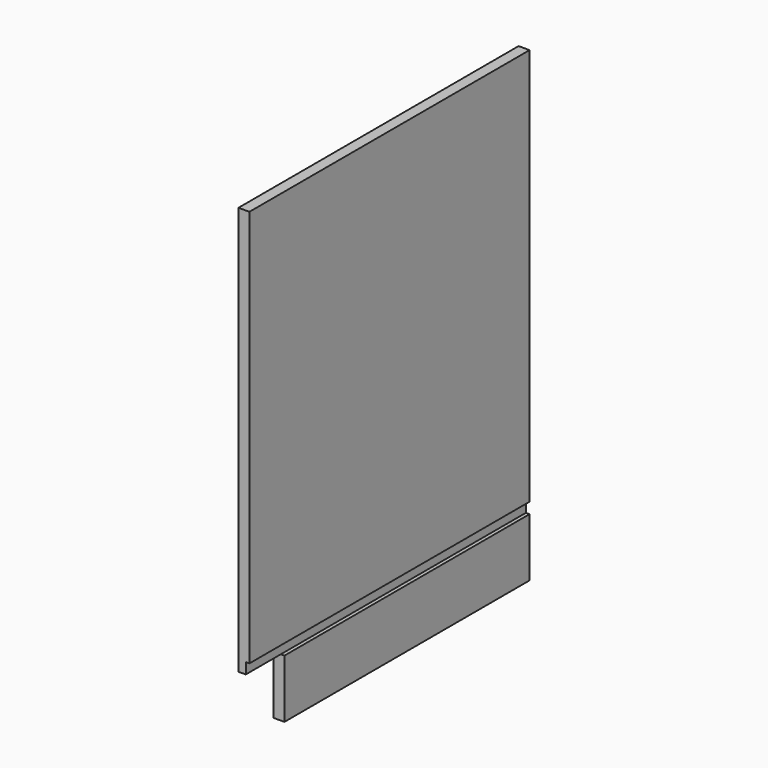
from build123d import *

# Parameters (mm, degrees)
F1_DEPTH = 19.05
F3_DEPTH = 6.35


with BuildPart() as f1:
    # F0 (on Right) → F1 (new body)
    with BuildSketch(Plane.YZ):
        Polygon((0, 101.6), (0, 0), (533.4, 0), (533.4, 812.8), (-76.2, 812.8), (-76.2, 101.6), align=None)
    extrude(amount=F1_DEPTH)

    # F2 (on face) → F3 (cut)
    with BuildSketch(Plane.YZ.offset(19.05)):
        Polygon((-76.2, 120.65), (-76.2, 101.6), (0, 101.6), (533.4, 101.6), (533.4, 120.65), align=None)
    extrude(amount=-F3_DEPTH, mode=Mode.SUBTRACT)


solid = f1.part
